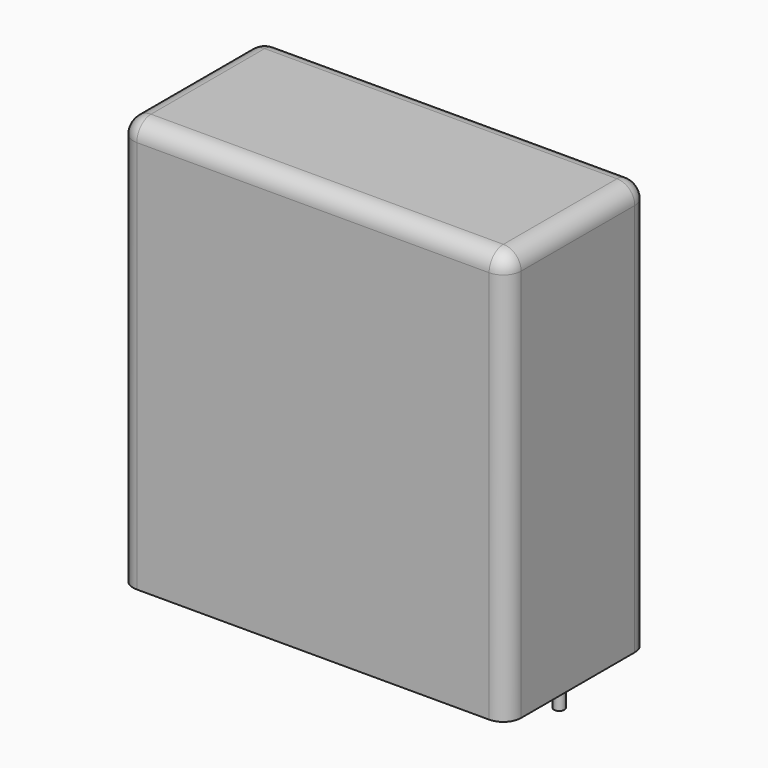
from build123d import *

# Parameters (mm, degrees)
SKETCH_W     = 41.5
SKETCH_H     = 19
PAD_DEPTH    = 44
FILLET_R     = 1.9
SKETCH001_R  = 0.55
PAD001_DEPTH = 3.2


with BuildPart() as fillet_body:
    # Sketch → Pad (new body)
    with BuildSketch(Plane.XY.offset(0.1)):
        with Locations((18.75, 0)):
            Rectangle(SKETCH_W, SKETCH_H)
    extrude(amount=PAD_DEPTH)

    # Fillet
    fillet_edges = [fillet_body.edges().sort_by_distance(p)[0] for p in [
        (-2, 0, 44.1),
        (-2, -9.5, 22.1),
        (18.75, -9.5, 44.1),
        (39.5, -9.5, 22.1),
        (39.5, 0, 44.1),
        (39.5, 9.5, 22.1),
        (18.75, 9.5, 44.1),
        (-2, 9.5, 22.1),
    ]]
    fillet(fillet_edges, radius=FILLET_R)


with BuildPart() as pad001:
    # Sketch001 → Pad001 (new body)
    with BuildSketch(Plane.XY.offset(0.5)):
        Circle(SKETCH001_R)
        with Locations((37.5, 0)):
            Circle(SKETCH001_R)
    extrude(amount=-PAD001_DEPTH)


solid = Compound([fillet_body.part, pad001.part])
